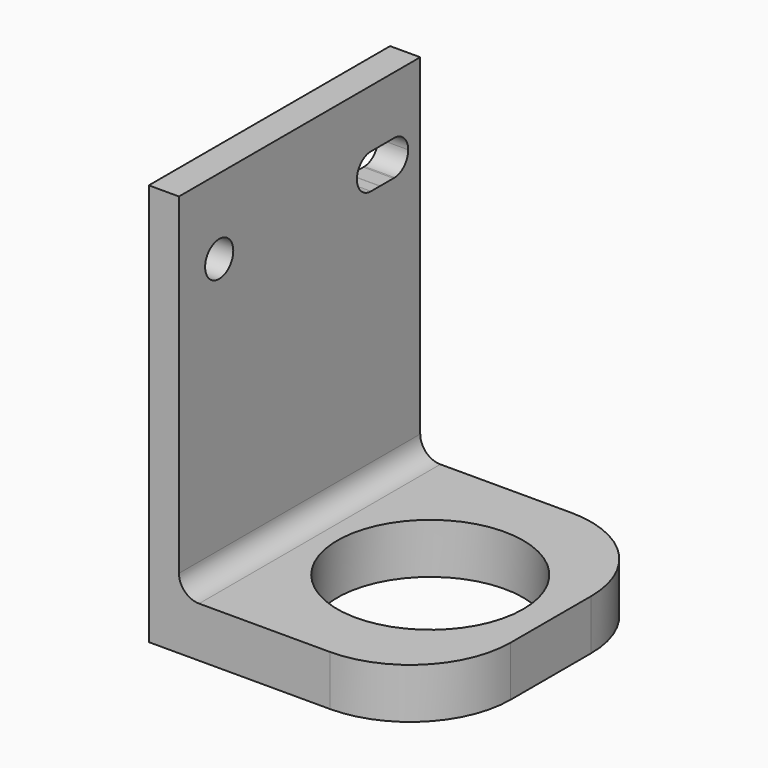
from build123d import *

# Parameters (mm, degrees)
F0_W     = 25
F0_H     = 30
F0_R     = 9.25
F0_W_2   = 3
F1_DEPTH = 5
F2_DEPTH = 40
F3_R     = 10
F4_R     = 1.75
F5_DEPTH = 3.001
F6_R     = 2


with BuildPart() as f1:
    # F0 (on Top) → F1 (new body)
    with BuildSketch(Plane.XY):
        with Locations((-12.5, 15)):
            Rectangle(F0_W, F0_H)
        with Locations((-12, 15)):
            Circle(F0_R, mode=Mode.SUBTRACT)
        with Locations((-26.5, 15)):
            Rectangle(F0_W_2, F0_H)
    extrude(amount=F1_DEPTH)

    # F0 (on Top) → F2 (join)
    with BuildSketch(Plane.XY):
        with Locations((-26.5, 15)):
            Rectangle(F0_W_2, F0_H)
    extrude(amount=F2_DEPTH)

    # F3
    f3_edges = [f1.edges().sort_by_distance(p)[0] for p in [
        (0, 0, 2.5),
        (0, 30, 2.5),
    ]]
    fillet(f3_edges, radius=F3_R)

    # F4 (on face) → F5 (cut, through all)
    with BuildSketch(Plane.YZ.offset(-25)):
        with Locations((5, 32.5)):
            Circle(F4_R)
        with BuildLine():
            ThreePointArc((25.8762976423, 34.0147945214), (26.5159190074, 33.3743509381), (26.75, 32.5))
            ThreePointArc((26.75, 32.5), (26.5151696279, 31.6243510986), (25.8737017159, 30.9837067198))
            ThreePointArc((25.8737017159, 30.9837067198), (26.2572446424, 30.8193071518), (26.6688053839, 30.7503858164))
            Line((26.6688053839, 30.7503858164), (26.8316769531, 30.7504083459))
            ThreePointArc((26.8316769531, 30.7504083459), (28.015984309, 31.290286813), (28.4999993582, 32.4985012412))
            ThreePointArc((28.4999993582, 32.4985012412), (27.9856735638, 33.7376982625), (26.7450173494, 34.2484941496))
            ThreePointArc((26.7450173494, 34.2484941496), (26.2953839701, 34.1884198336), (25.8762976423, 34.0147945214))
        make_face()
        with BuildLine():
            ThreePointArc((25.313264961, 33.4976480132), (25.5661966357, 33.7873422376), (25.8762976423, 34.0147945214))
            ThreePointArc((25.8762976423, 34.0147945214), (25.5235901108, 34.1698363381), (25.1455039627, 34.2439405371))
            Line((25.1455039627, 34.2439405371), (24.8445689194, 34.243083813))
            ThreePointArc((24.8445689194, 34.243083813), (24.6385972754, 34.2122756994), (24.4377440921, 34.1572170329))
            ThreePointArc((24.4377440921, 34.1572170329), (24.9284794863, 33.8977522036), (25.313264961, 33.4976480132))
        make_face()
        with BuildLine():
            ThreePointArc((25.1455039627, 34.2439405371), (25.5235901108, 34.1698363381), (25.8762976423, 34.0147945214))
            ThreePointArc((25.8762976423, 34.0147945214), (26.2953839701, 34.1884198336), (26.7450173494, 34.2484941496))
            Line((26.7450173494, 34.2484941496), (25.1455039627, 34.2439405371))
        make_face()
        with BuildLine():
            ThreePointArc((26.6688053839, 30.7503858164), (26.2572446424, 30.8193071518), (25.8737017159, 30.9837067198))
            ThreePointArc((25.8737017159, 30.9837067198), (25.4635661352, 30.8125147591), (25.0235325622, 30.7501582304))
            Line((25.0235325622, 30.7501582304), (26.6688053839, 30.7503858164))
        make_face()
        with BuildLine():
            ThreePointArc((25.0235325622, 30.7501582304), (25.4635661352, 30.8125147591), (25.8737017159, 30.9837067198))
            ThreePointArc((25.8737017159, 30.9837067198), (25.5644222061, 31.2112923163), (25.3122242271, 31.5008526697))
            ThreePointArc((25.3122242271, 31.5008526697), (24.927751526, 31.1016985717), (24.4377457378, 30.8427824088))
            ThreePointArc((24.4377457378, 30.8427824088), (24.7037063498, 30.7752652167), (24.97695154, 30.750151787))
            Line((24.97695154, 30.750151787), (25.0235325622, 30.7501582304))
        make_face()
        with BuildLine():
            Line((24.8445689194, 34.243083813), (25.1455039627, 34.2439405371))
            ThreePointArc((25.1455039627, 34.2439405371), (24.9950179912, 34.2499929084), (24.8445689194, 34.243083813))
        make_face()
        with BuildLine():
            ThreePointArc((24.97695154, 30.750151787), (25.0002420726, 30.7500000167), (25.0235325622, 30.7501582304))
            Line((25.0235325622, 30.7501582304), (24.97695154, 30.750151787))
        make_face()
        with BuildLine():
            Line((26.8316769531, 30.7504083459), (26.6688053839, 30.7503858164))
            ThreePointArc((26.6688053839, 30.7503858164), (26.7502414308, 30.7485012579), (26.8316769531, 30.7504083459))
        make_face()
        with BuildLine():
            ThreePointArc((24.4377440921, 34.1572170329), (24.6385972754, 34.2122756994), (24.8445689194, 34.243083813))
            Line((24.8445689194, 34.243083813), (24.0543595868, 34.2408341869))
            ThreePointArc((24.0543595868, 34.2408341869), (24.248402903, 34.2098052318), (24.4377440921, 34.1572170329))
        make_face()
        with BuildLine():
            ThreePointArc((24.4377457378, 30.8427824088), (23.25, 32.4999991311), (24.4377440921, 34.1572170329))
            ThreePointArc((24.4377440921, 34.1572170329), (24.248402903, 34.2098052318), (24.0543595868, 34.2408341869))
            Line((24.0543595868, 34.2408341869), (23.6867111794, 34.2397875383))
            ThreePointArc((23.6867111794, 34.2397875383), (22.1280512127, 32.4053512558), (23.8757319025, 30.7499994584))
            ThreePointArc((23.8757319025, 30.7499994584), (24.1605392352, 30.7733706928), (24.4377457378, 30.8427824088))
        make_face()
        with BuildLine():
            Line((23.8757319025, 30.7499994584), (24.97695154, 30.750151787))
            ThreePointArc((24.97695154, 30.750151787), (24.7037063498, 30.7752652167), (24.4377457378, 30.8427824088))
            ThreePointArc((24.4377457378, 30.8427824088), (24.1605392352, 30.7733706928), (23.8757319025, 30.7499994584))
        make_face()
        with BuildLine():
            Line((23.6867111794, 34.2397875383), (24.0543595868, 34.2408341869))
            ThreePointArc((24.0543595868, 34.2408341869), (23.8705078211, 34.2499923501), (23.6867111794, 34.2397875383))
        make_face()
        with BuildLine():
            ThreePointArc((25.8737017159, 30.9837067198), (26.5151696279, 31.6243510986), (26.75, 32.5))
            ThreePointArc((26.75, 32.5), (26.5159190074, 33.3743509381), (25.8762976423, 34.0147945214))
            ThreePointArc((25.8762976423, 34.0147945214), (25.5661966357, 33.7873422376), (25.313264961, 33.4976480132))
            ThreePointArc((25.313264961, 33.4976480132), (25.545610556, 33.0226817163), (25.6254898299, 32.4999994417))
            ThreePointArc((25.6254898299, 32.4999994417), (25.5453379061, 31.9764467676), (25.3122242271, 31.5008526697))
            ThreePointArc((25.3122242271, 31.5008526697), (25.5644222061, 31.2112923163), (25.8737017159, 30.9837067198))
        make_face()
        with BuildLine():
            ThreePointArc((25.3122242271, 31.5008526697), (24.9999995959, 32.4994133448), (25.313264961, 33.4976480132))
            ThreePointArc((25.313264961, 33.4976480132), (24.9284794863, 33.8977522036), (24.4377440921, 34.1572170329))
            ThreePointArc((24.4377440921, 34.1572170329), (23.25, 32.4999991311), (24.4377457378, 30.8427824088))
            ThreePointArc((24.4377457378, 30.8427824088), (24.927751526, 31.1016985717), (25.3122242271, 31.5008526697))
        make_face()
        with BuildLine():
            ThreePointArc((25.6254898299, 32.4999994417), (25.545610556, 33.0226817163), (25.313264961, 33.4976480132))
            ThreePointArc((25.313264961, 33.4976480132), (24.9999995959, 32.4994133448), (25.3122242271, 31.5008526697))
            ThreePointArc((25.3122242271, 31.5008526697), (25.5453379061, 31.9764467676), (25.6254898299, 32.4999994417))
        make_face()
    extrude(amount=-F5_DEPTH, mode=Mode.SUBTRACT)

    # F6
    f6_edges = [f1.edges().sort_by_distance(p)[0] for p in [
        (-25, 15, 5),
    ]]
    fillet(f6_edges, radius=F6_R)


solid = f1.part
